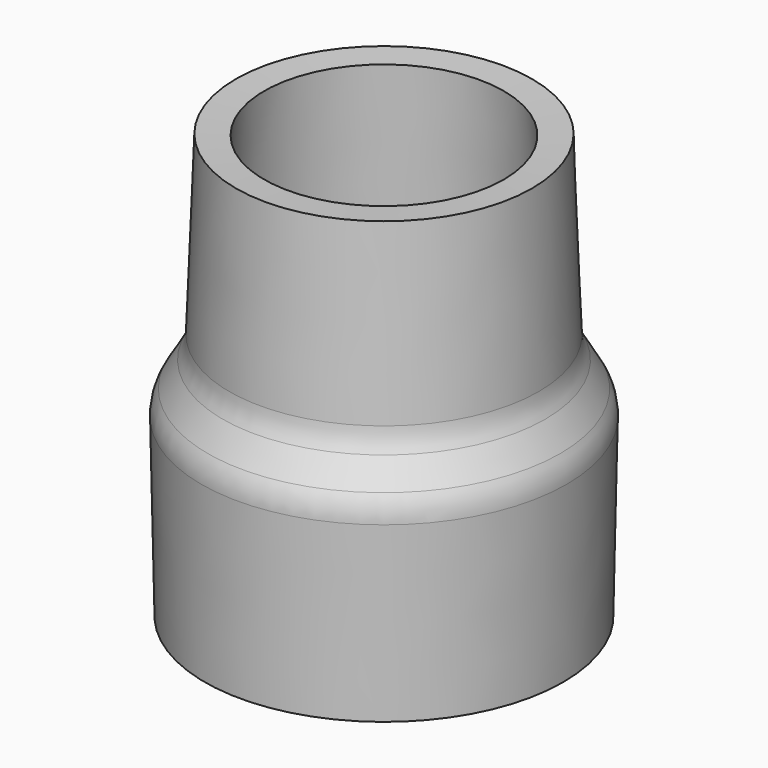
from build123d import *


with BuildPart() as f1:
    # F0 (on Front) → F1 (revolve)
    with BuildSketch(Plane.XZ):
        with BuildLine():
            Line((15.425971, 19.134293), (16, 0))
            Line((16, 0), (19, 0))
            Line((19, 0), (19.371627, 18.581355))
            ThreePointArc((19.371627, 18.581355), (19.209023, 19.949907), (18.678973, 21.22208))
            Line((18.678973, 21.22208), (17.092742, 23.910606))
            ThreePointArc((17.092742, 23.910606), (16.601144, 25.044324), (16.402601, 26.263982))
            Line((16.402601, 26.263982), (15.7, 45))
            Line((15.7, 45), (12.703474, 44.851139))
            Line((12.703474, 44.851139), (13.416649, 25.833132))
            ThreePointArc((13.416649, 25.833132), (13.518091, 25.00142), (13.756992, 24.198326))
            Line((13.756992, 24.198326), (15.084364, 20.806534))
            ThreePointArc((15.084364, 20.806534), (15.327049, 19.985097), (15.425971, 19.134293))
        make_face()
    revolve(axis=Axis((0, 0, 22.42557), (0, 0, 1)))


solid = f1.part
